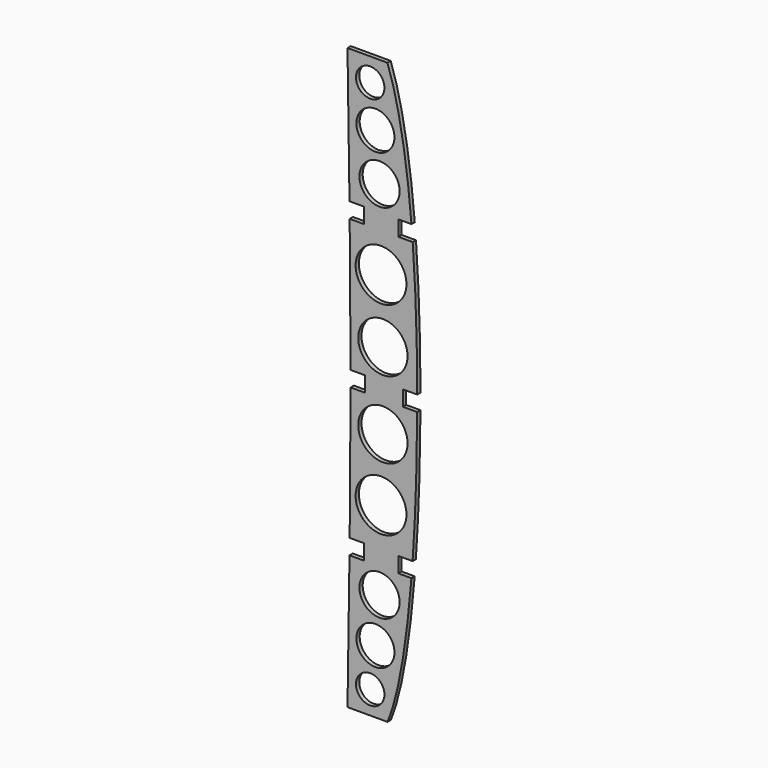
from build123d import *

# Parameters (mm, degrees)
F0_R     = 19.603688
F0_R_2   = 13.870468
F0_R_3   = 18.530739
F0_R_4   = 24.78659
F0_R_5   = 24.059578
F1_DEPTH = 4


with BuildPart() as f1:
    # F0 (on Front) → F1 (new body)
    with BuildSketch(Plane.XZ):
        with BuildLine():
            Line((247.598545, 129.316792), (218.598545, 129.316792))
            Line((218.598545, 129.316792), (208.598545, 129.316792))
            add(Edge.make_bspline(
                [(208.598545, 129.316792), (209.292892, 85.650126), (209.987238, 41.983459), (210.532804, -1.683208)],
                knots=[0, 0, 0, 0, 131.00736, 131.00736, 131.00736, 131.00736], degree=3))
            Line((210.532804, -1.683208), (224.714136, -1.683208))
            Line((224.714136, -1.683208), (224.714136, -9.183208))
            Line((224.714136, -9.183208), (258.207463, -9.183208))
            Line((258.207463, -9.183208), (258.207463, -1.683208))
            Line((258.207463, -1.683208), (271.015688, -1.683208))
            add(Edge.make_bspline(
                [(247.598545, 129.316792), (258.936994, 97.14756), (266.473841, 51.345555), (271.015688, -1.683208)],
                knots=[0, 0, 0, 0, 151.505652, 151.505652, 151.505652, 151.505652], degree=3))
        make_face()
        with Locations((239.830866, 22.773052)):
            Circle(F0_R, mode=Mode.SUBTRACT)
        with Locations((230.733871, 106.829256)):
            Circle(F0_R_2, mode=Mode.SUBTRACT)
        with Locations((235.828176, 67.530252)):
            Circle(F0_R_3, mode=Mode.SUBTRACT)
        with BuildLine():
            Line((258.207463, -16.683208), (258.207463, -9.183208))
            Line((258.207463, -9.183208), (224.714136, -9.183208))
            Line((224.714136, -9.183208), (224.714136, -16.683208))
            Line((224.714136, -16.683208), (210.714136, -16.683208))
            add(Edge.make_bspline(
                [(210.714136, -16.683208), (211.217845, -59.849874), (211.559513, -103.016541), (211.595413, -146.183208)],
                knots=[146.008203, 146.008203, 146.008203, 146.008203, 275.515479, 275.515479, 275.515479, 275.515479], degree=3))
            Line((211.595413, -146.183208), (225.595413, -146.183208))
            Line((225.595413, -146.183208), (225.595413, -153.683208))
            Line((225.595413, -153.683208), (262.598491, -153.683208))
            Line((262.598491, -153.683208), (262.598491, -146.183208))
            Line((262.598491, -146.183208), (276.598491, -146.183208))
            add(Edge.make_bspline(
                [(272.207463, -16.683208), (275.174253, -57.063181), (276.527478, -101.107051), (276.598491, -146.183208)],
                knots=[165.616704, 165.616704, 165.616704, 165.616704, 278.243078, 278.243078, 278.243078, 278.243078], degree=3))
            Line((272.207463, -16.683208), (258.207463, -16.683208))
        make_face()
        with Locations((241.286382, -54.733325)):
            Circle(F0_R_4, mode=Mode.SUBTRACT)
        with Locations((243.105769, -116.228998)):
            Circle(F0_R_5, mode=Mode.SUBTRACT)
        with BuildLine():
            add(Edge.make_bspline(
                [(210.532804, -305.683208), (209.987238, -349.349874), (209.292892, -393.016541), (208.598545, -436.683208)],
                knots=[435.024441, 435.024441, 435.024441, 435.024441, 566.031801, 566.031801, 566.031801, 566.031801], degree=3))
            Line((208.598545, -436.683208), (218.598545, -436.683208))
            Line((218.598545, -436.683208), (247.598545, -436.683208))
            add(Edge.make_bspline(
                [(270.954375, -305.683208), (266.376933, -362.117906), (258.822956, -409.911712), (247.598545, -436.683208)],
                knots=[413.826682, 413.826682, 413.826682, 413.826682, 568.963971, 568.963971, 568.963971, 568.963971], degree=3))
            Line((270.954375, -305.683208), (258.207463, -305.683208))
            Line((258.207463, -305.683208), (258.207463, -298.183208))
            Line((258.207463, -298.183208), (258.207463, -290.683208))
            Line((258.207463, -290.683208), (272.08775, -290.683208))
            add(Edge.make_bspline(
                [(276.575303, -161.183208), (276.370496, -205.212088), (274.956086, -249.83193), (272.08775, -290.683208)],
                knots=[290.707653, 290.707653, 290.707653, 290.707653, 400.255998, 400.255998, 400.255998, 400.255998], degree=3))
            Line((276.575303, -161.183208), (262.598491, -161.183208))
            Line((262.598491, -161.183208), (262.598491, -153.683208))
            Line((262.598491, -153.683208), (225.595413, -153.683208))
            Line((225.595413, -153.683208), (225.595413, -161.183208))
            Line((225.595413, -161.183208), (211.595413, -161.183208))
            add(Edge.make_bspline(
                [(211.595413, -161.183208), (211.559513, -204.349874), (211.217845, -247.516541), (210.714136, -290.683208)],
                knots=[290.516322, 290.516322, 290.516322, 290.516322, 420.023598, 420.023598, 420.023598, 420.023598], degree=3))
            Line((210.714136, -290.683208), (224.714136, -290.683208))
            Line((224.714136, -290.683208), (224.714136, -305.683208))
            Line((224.714136, -305.683208), (210.532804, -305.683208))
        make_face()
        with Locations((230.733871, -414.195671)):
            Circle(F0_R_2, mode=Mode.SUBTRACT)
        with Locations((235.828176, -374.896667)):
            Circle(F0_R_3, mode=Mode.SUBTRACT)
        with Locations((239.830866, -330.139467)):
            Circle(F0_R, mode=Mode.SUBTRACT)
        with Locations((241.286382, -252.633091)):
            Circle(F0_R_4, mode=Mode.SUBTRACT)
        with Locations((243.105769, -191.137418)):
            Circle(F0_R_5, mode=Mode.SUBTRACT)
    extrude(amount=F1_DEPTH)


solid = f1.part
